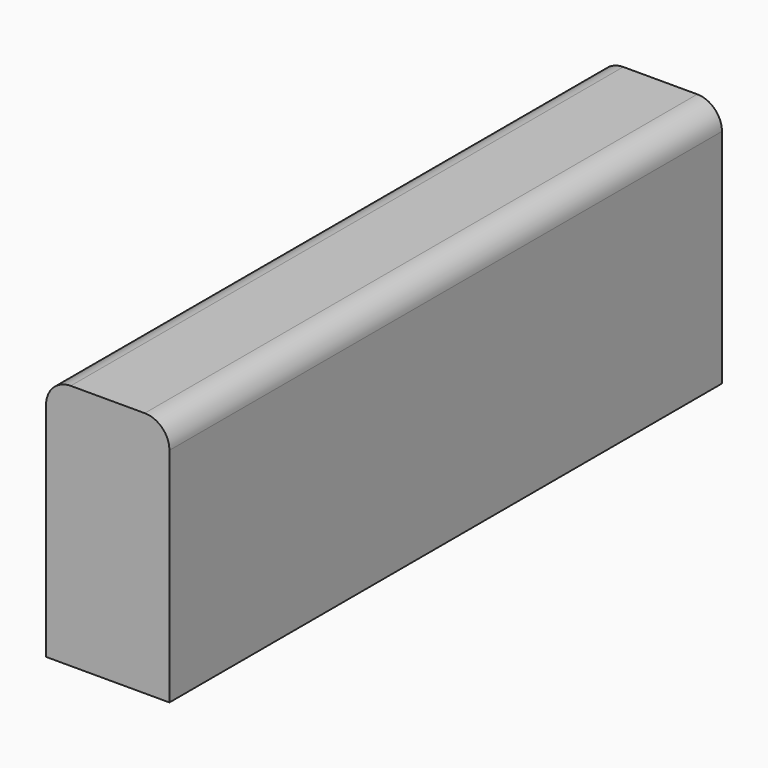
from build123d import *

# Parameters (mm, degrees)
F1_DEPTH = 140


with BuildPart() as f1:
    # F0 (on Front) → F1 (new body)
    with BuildSketch(Plane.XZ):
        with BuildLine():
            Line((0, 45), (0, 0))
            Line((0, 0), (25, 0))
            Line((25, 0), (25, 45))
            ThreePointArc((25, 45), (23.535534, 48.535534), (20, 50))
            Line((20, 50), (5, 50))
            ThreePointArc((5, 50), (1.464466, 48.535534), (0, 45))
        make_face()
    extrude(amount=F1_DEPTH)


solid = f1.part
